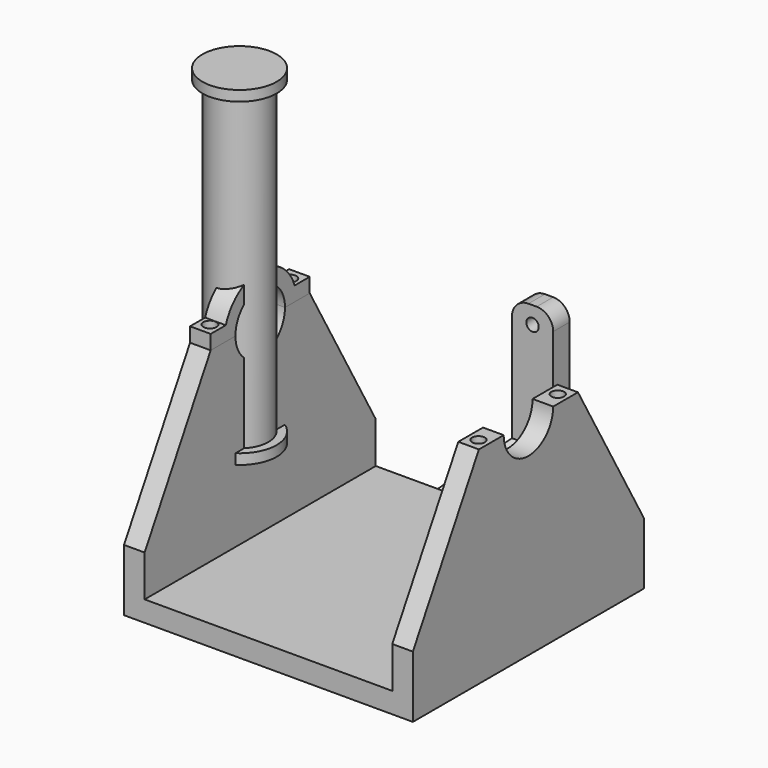
from build123d import *

# Parameters (mm, degrees)
PAD_DEPTH               = 70
SKETCH002_W             = 10
SKETCH002_H             = 60
POCKET_DEPTH            = 70.001
SKETCH004_R             = 7.5
POCKET001_DEPTH         = 70.001
SKETCH005_W             = 70
SKETCH005_H             = 60
POCKET002_DEPTH         = 35.001
PAD001_DEPTH            = 5
SKETCH008_W             = 5
SKETCH008_H             = 10
PAD002_DEPTH            = 45
FILLET_R                = 4
SKETCH009_R             = 1.5
POCKET003_DEPTH         = 85.001
SKETCH016_R             = 1.55
POCKET008_DEPTH         = 8
SKETCH010_W             = 10
SKETCH010_H             = 30
PAD003_DEPTH            = 10
POCKET004_DEPTH         = 30.001
POCKET005_DEPTH         = 30.001
POCKET006_DEPTH         = 76.333496
BODY001_PLACEMENT_ANGLE = 90
PAD004_DEPTH            = 5
SKETCH014_W             = 6
SKETCH014_H             = 3.5
PAD005_DEPTH            = 5
SKETCH029_R             = 1.6
POCKET009_DEPTH         = 75.684847
BODY002_ROLL_ANGLE      = 90
BODY002_PLACEMENT_ANGLE = 90
SKETCH026_R             = 7
PAD009_DEPTH            = 75
SKETCH027_R             = 9
PAD010_DEPTH            = 2.5
SKETCH028_R             = 9
PAD011_DEPTH            = 2.5


with BuildPart() as body:
    # Sketch → Pad (new body)
    with BuildSketch(Plane.YZ):
        Polygon((-35, -25), (35, -25), (35, -10), (15, 25), (-15, 25), (-35, -10), align=None)
    extrude(amount=PAD_DEPTH)

    # Sketch002 (on Face2 of Pad) → Pocket (cut, through all)
    with BuildSketch(Plane.ZX.offset(35)):
        with Locations((-15, 35)):
            Rectangle(SKETCH002_W, SKETCH002_H)
    extrude(amount=-POCKET_DEPTH, mode=Mode.SUBTRACT)

    # Sketch004 (on Face4 of Pocket) → Pocket001 (cut, through all)
    with BuildSketch(Plane(origin=(0, 0, 0), x_dir=(0, 1, 0), z_dir=(-1, 0, 0))):
        with Locations((0, -25)):
            Circle(SKETCH004_R)
    extrude(amount=-POCKET001_DEPTH, mode=Mode.SUBTRACT)

    # Sketch005 (on Face14 of Pocket001) → Pocket002 (cut, through all)
    with BuildSketch(Plane.YX.offset(10)):
        with Locations((0, 35)):
            Rectangle(SKETCH005_W, SKETCH005_H)
    extrude(amount=-POCKET002_DEPTH, mode=Mode.SUBTRACT)

    # Sketch007 (on Face1 of Pocket002) → Pad001 (join)
    with BuildSketch(Plane.YX.offset(25)):
        Polygon((35, 50), (45, 40), (45, 30), (35, 20), align=None)
    extrude(amount=-PAD001_DEPTH)

    # Sketch008 (on Face17 of Pad001) → Pad002 (join)
    with BuildSketch(Plane.YX.offset(25)):
        with Locations((47.5, 35)):
            Rectangle(SKETCH008_W, SKETCH008_H)
    extrude(amount=-PAD002_DEPTH)

    # Fillet
    fillet_edges = [body.edges().sort_by_distance(p)[0] for p in [
        (30, 47.5, 20),
        (40, 47.5, 20),
    ]]
    fillet(fillet_edges, radius=FILLET_R)

    # Sketch009 (on Face9 of Fillet) → Pocket003 (cut, through all)
    with BuildSketch(Plane.ZX.offset(50)):
        with Locations((15.821609, 35)):
            Circle(SKETCH009_R)
    extrude(amount=-POCKET003_DEPTH, mode=Mode.SUBTRACT)

    # Sketch016 (on Face34 of Pocket003) → Pocket008 (cut)
    with BuildSketch(Plane(origin=(0, 0, 25), x_dir=(0, -1, 0), z_dir=(0, 0, 1))):
        with Locations((-12, 2.5)):
            Circle(SKETCH016_R)
        with Locations((-12, 67.5)):
            Circle(SKETCH016_R)
    pocket008 = extrude(amount=-POCKET008_DEPTH, mode=Mode.SUBTRACT)

    # Mirrored003: Pocket008 across Sketch016 V_Axis
    add(pocket008.mirror(Plane(origin=(0, 0, 25), x_dir=(0, 0, 1), z_dir=(0, -1, 0))), mode=Mode.SUBTRACT)


with BuildPart() as brace:
    # Sketch010 → Pad003 (new body)
    with BuildSketch(Plane.XY):
        Rectangle(SKETCH010_W, SKETCH010_H)
    extrude(amount=PAD003_DEPTH)

    # Sketch011 (on Face3 of Pad003) → Pocket004 (cut, through all)
    with BuildSketch(Plane.XZ.offset(15)):
        Polygon((-5, 10), (5, 10), (-5, 0), align=None)
    extrude(amount=-POCKET004_DEPTH, mode=Mode.SUBTRACT)

    # Sketch011 (on Face3 of Pad003) → Pocket005 (cut, through all)
    with BuildSketch(Plane.XZ.offset(15)):
        Polygon((-5, 10), (5, 10), (-5, 0), align=None)
    extrude(amount=-POCKET005_DEPTH, mode=Mode.SUBTRACT)

    # Sketch012 (on Face2 of Pocket004) → Pocket006 (cut, through all)
    with BuildSketch(Plane(origin=(0, 0, 0), x_dir=(1, 0, 0), z_dir=(0, 0, -1))):
        Polygon((-5, 15), (5, 15), (5, 5), align=None)
    pocket006 = extrude(amount=-POCKET006_DEPTH, mode=Mode.SUBTRACT)

    # Mirrored: Pocket006 across Sketch012 H_Axis
    add(pocket006.mirror(Plane(origin=(0, 0, 0), x_dir=(0, 0, -1), z_dir=(0, -1, 0))), mode=Mode.SUBTRACT)


with BuildPart() as brace_1:
    # Body001 placement: moved
    add(brace.part.moved(Location((35, 40, -20))).rotate(Axis((35, 40, -20), (0, 0, 1)), BODY001_PLACEMENT_ANGLE))


with BuildPart() as body002:
    # Sketch013 → Pad004 (new body)
    with BuildSketch(Plane.XY):
        with BuildLine():
            ThreePointArc((7.5, 0), (0, 7.5), (-7.5, 0))
            Line((-11, 0), (-7.5, 0))
            ThreePointArc((11, 0), (0, 11), (-11, 0))
            Line((7.5, 0), (11, 0))
        make_face()
    extrude(amount=PAD004_DEPTH)

    # Sketch014 (on Face5 of Pad004) → Pad005 (join)
    with BuildSketch(Plane(origin=(0, 0, 0), x_dir=(1, 0, 0), z_dir=(0, 0, -1))):
        with Locations((-12, -1.75)):
            Rectangle(SKETCH014_W, SKETCH014_H)
    pad005 = extrude(amount=-PAD005_DEPTH)

    # Mirrored004: Pad005 across Sketch014 V_Axis
    add(pad005.mirror(Plane(origin=(0, 0, 0), x_dir=(0, 0, -1), z_dir=(1, 0, 0))))

    # Sketch029 (on Face11 of Pad005) → Pocket009 (cut, through all)
    with BuildSketch(Plane.XZ):
        with Locations((-12.1, 2.5)):
            Circle(SKETCH029_R)
    pocket009 = extrude(amount=-POCKET009_DEPTH, mode=Mode.SUBTRACT)

    # Mirrored005: Pocket009 across Sketch029 V_Axis
    add(pocket009.mirror(Plane(origin=(0, 0, 0), x_dir=(0, -1, 0), z_dir=(1, 0, 0))), mode=Mode.SUBTRACT)


with BuildPart() as body002_1:
    # Body002 roll: moved
    add(body002.part.rotate(Axis((0, 0, 0), (1, 0, 0)), BODY002_ROLL_ANGLE))


with BuildPart() as body002_2:
    # Body002 placement: moved
    add(body002_1.part.moved(Location((0, 0, 25))).rotate(Axis((0, 0, 25), (0, 0, 1)), BODY002_PLACEMENT_ANGLE))


with BuildPart() as body005:
    # Sketch026 → Pad009 (new body)
    with BuildSketch(Plane.XY):
        Circle(SKETCH026_R)
    extrude(amount=PAD009_DEPTH)

    # Sketch027 (on Face2 of Pad009) → Pad010 (join)
    with BuildSketch(Plane(origin=(0, 0, 0), x_dir=(1, 0, 0), z_dir=(0, 0, -1))):
        Circle(SKETCH027_R)
    extrude(amount=PAD010_DEPTH)

    # Sketch028 (on Face1 of Pad010) → Pad011 (join)
    with BuildSketch(Plane.XY.offset(75)):
        Circle(SKETCH028_R)
    extrude(amount=PAD011_DEPTH)


solid = Compound([body.part, brace_1.part, body002_2.part, body005.part])
